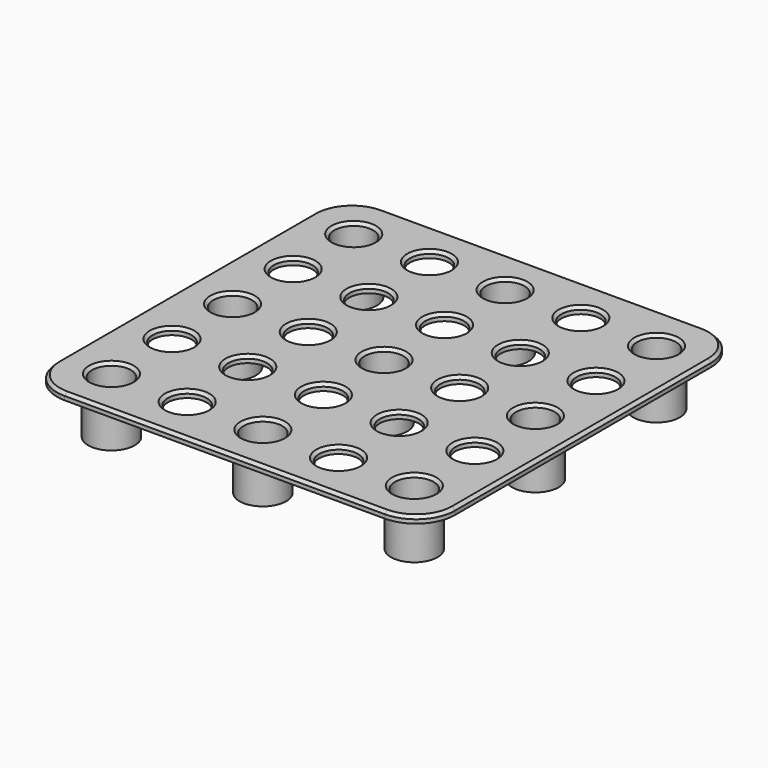
from build123d import *

# Parameters (mm, degrees)
F1_DEPTH = 3.5
F2_R     = 10
F3_DEPTH = 3.501
F4_R     = 12
F4_R_2   = 10
F5_DEPTH = 25
F6_SIZE  = 1.5


with BuildPart() as f1:
    # F0 (on Top) → F1 (new body)
    with BuildSketch(Plane.XY):
        with BuildLine():
            ThreePointArc((102.5, 82.5), (96.6421356237, 96.6421356237), (82.5, 102.5))
            Line((82.5, 102.5), (-82.5, 102.5))
            ThreePointArc((-82.5, 102.5), (-96.6421356237, 96.6421356237), (-102.5, 82.5))
            Line((-102.5, 82.5), (-102.5, -82.5))
            ThreePointArc((-102.5, -82.5), (-96.6421356237, -96.6421356237), (-82.5, -102.5))
            Line((-82.5, -102.5), (82.5, -102.5))
            ThreePointArc((82.5, -102.5), (96.6421356237, -96.6421356237), (102.5, -82.5))
            Line((102.5, -82.5), (102.5, 82.5))
        make_face()
    extrude(amount=F1_DEPTH)

    # F2 (on Top) → F3 (cut, through all)
    with BuildSketch(Plane.XY):
        with Locations((-78, 78)):
            Circle(F2_R)
        with Locations((-78, 39)):
            Circle(F2_R)
        with Locations((-78, 0)):
            Circle(F2_R)
        with Locations((-78, -39)):
            Circle(F2_R)
        with Locations((-78, -78)):
            Circle(F2_R)
        with Locations((-39, 78)):
            Circle(F2_R)
        with Locations((-39, 39)):
            Circle(F2_R)
        with Locations((-39, 0)):
            Circle(F2_R)
        with Locations((-39, -39)):
            Circle(F2_R)
        with Locations((-39, -78)):
            Circle(F2_R)
        with Locations((0, 78)):
            Circle(F2_R)
        with Locations((0, 39)):
            Circle(F2_R)
        Circle(F2_R)
        with Locations((0, -39)):
            Circle(F2_R)
        with Locations((0, -78)):
            Circle(F2_R)
        with Locations((39, 78)):
            Circle(F2_R)
        with Locations((39, 39)):
            Circle(F2_R)
        with Locations((39, 0)):
            Circle(F2_R)
        with Locations((39, -39)):
            Circle(F2_R)
        with Locations((39, -78)):
            Circle(F2_R)
        with Locations((78, 78)):
            Circle(F2_R)
        with Locations((78, 39)):
            Circle(F2_R)
        with Locations((78, 0)):
            Circle(F2_R)
        with Locations((78, -39)):
            Circle(F2_R)
        with Locations((78, -78)):
            Circle(F2_R)
    extrude(amount=F3_DEPTH, mode=Mode.SUBTRACT)

    # F4 (on face) → F5 (join)
    with BuildSketch(Plane(origin=(0, 0, 0), x_dir=(1, 0, 0), z_dir=(0, 0, -1))):
        with Locations((-78, -78)):
            Circle(F4_R)
        with Locations((-78, -78)):
            Circle(F4_R_2, mode=Mode.SUBTRACT)
        with Locations((-78, 0)):
            Circle(F4_R)
        with Locations((-78, 0)):
            Circle(F4_R_2, mode=Mode.SUBTRACT)
        with Locations((-78, 78)):
            Circle(F4_R)
        with Locations((-78, 78)):
            Circle(F4_R_2, mode=Mode.SUBTRACT)
        with Locations((0, -78)):
            Circle(F4_R)
        with Locations((0, -78)):
            Circle(F4_R_2, mode=Mode.SUBTRACT)
        Circle(F4_R)
        Circle(F4_R_2, mode=Mode.SUBTRACT)
        with Locations((0, 78)):
            Circle(F4_R)
        with Locations((0, 78)):
            Circle(F4_R_2, mode=Mode.SUBTRACT)
        with Locations((78, -78)):
            Circle(F4_R)
        with Locations((78, -78)):
            Circle(F4_R_2, mode=Mode.SUBTRACT)
        with Locations((78, 0)):
            Circle(F4_R)
        with Locations((78, 0)):
            Circle(F4_R_2, mode=Mode.SUBTRACT)
        with Locations((78, 78)):
            Circle(F4_R)
        with Locations((78, 78)):
            Circle(F4_R_2, mode=Mode.SUBTRACT)
    extrude(amount=F5_DEPTH)

    # F6
    f6_edges = [f1.edges().sort_by_distance(p)[0] for p in [
        (96.642136, 96.642136, 3.5),
        (102.5, 0, 3.5),
        (0, 102.5, 3.5),
        (96.642136, -96.642136, 3.5),
        (-96.642136, 96.642136, 3.5),
        (0, -102.5, 3.5),
        (-102.5, 0, 3.5),
        (-96.642136, -96.642136, 3.5),
        (-88, -78, 3.5),
        (-49, -78, 3.5),
        (-88, -39, 3.5),
        (-49, -39, 3.5),
        (-10, -78, 3.5),
        (29, -78, 3.5),
        (68, -78, 3.5),
        (-10, -39, 3.5),
        (29, -39, 3.5),
        (68, -39, 3.5),
        (-88, 0, 3.5),
        (-88, 39, 3.5),
        (-49, 0, 3.5),
        (-49, 39, 3.5),
        (-88, 78, 3.5),
        (-49, 78, 3.5),
        (-10, 0, 3.5),
        (29, 0, 3.5),
        (-10, 39, 3.5),
        (29, 39, 3.5),
        (68, 0, 3.5),
        (68, 39, 3.5),
        (-10, 78, 3.5),
        (29, 78, 3.5),
        (68, 78, 3.5),
    ]]
    chamfer(f6_edges, length=F6_SIZE)


solid = f1.part
